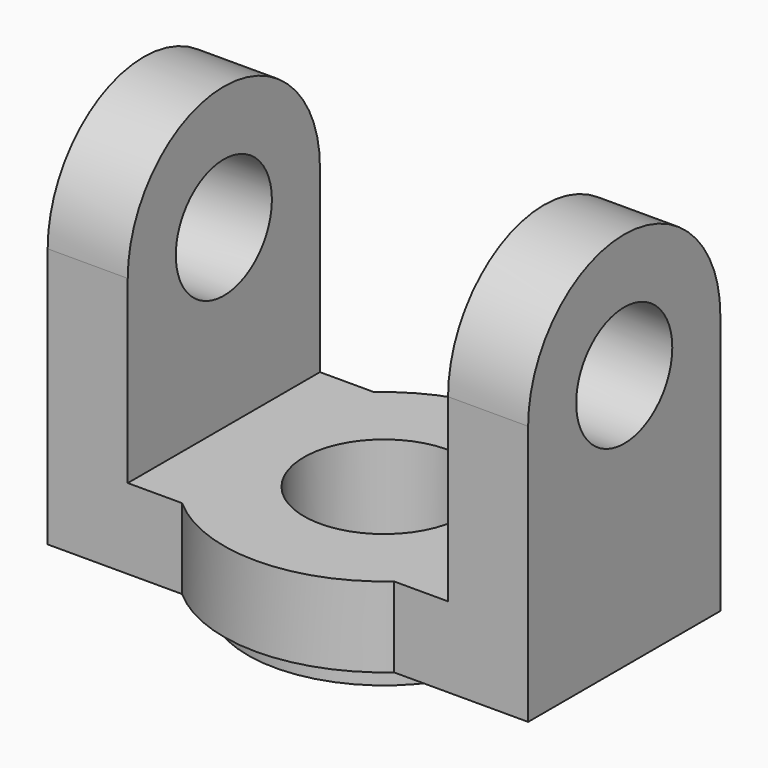
from build123d import *

# Parameters (mm, degrees)
F0_R          = 20
F1_DEPTH      = 10
F3_DEPTH      = 30
F4_W          = 30
F4_H          = 37.5
F5_DEPTH      = 20
F6_R          = 7.5
F7_DEPTH      = 30.001
F7_DEPTH_BACK = 30.001
F8_R          = 17
F9_DEPTH      = 3
F10_R         = 10
F11_DEPTH     = 13.001


with BuildPart() as f1:
    # F0 (on Top) → F1 (new body)
    with BuildSketch(Plane.XY):
        Circle(F0_R)
    extrude(amount=F1_DEPTH)

    # F2 (on Right) → F3 (join, symmetric)
    with BuildSketch(Plane.YZ):
        with BuildLine():
            Line((-15, 32.5), (-15, 0))
            Line((-15, 0), (15, 0))
            Line((15, 0), (15, 32.5))
            ThreePointArc((15, 32.5), (0, 47.5), (-15, 32.5))
        make_face()
    extrude(amount=F3_DEPTH, both=True)

    # F4 (on Right) → F5 (cut, symmetric)
    with BuildSketch(Plane.YZ):
        with Locations((0, 28.75)):
            Rectangle(F4_W, F4_H)
    extrude(amount=F5_DEPTH, both=True, mode=Mode.SUBTRACT)

    # F6 (on Right) → F7 (cut, two sides)
    with BuildSketch(Plane.YZ) as f7_sk:
        with Locations((0, 32)):
            Circle(F6_R)
    extrude(amount=-F7_DEPTH, mode=Mode.SUBTRACT)
    extrude(f7_sk.sketch, amount=F7_DEPTH_BACK, mode=Mode.SUBTRACT)

    # F8 (on face) → F9 (join)
    with BuildSketch(Plane(origin=(0, 0, 0), x_dir=(1, 0, 0), z_dir=(0, 0, -1))):
        Circle(F8_R)
    extrude(amount=F9_DEPTH)

    # F10 (on face) → F11 (cut, through all)
    with BuildSketch(Plane.XY.offset(10)):
        Circle(F10_R)
    extrude(amount=-F11_DEPTH, mode=Mode.SUBTRACT)


solid = f1.part
